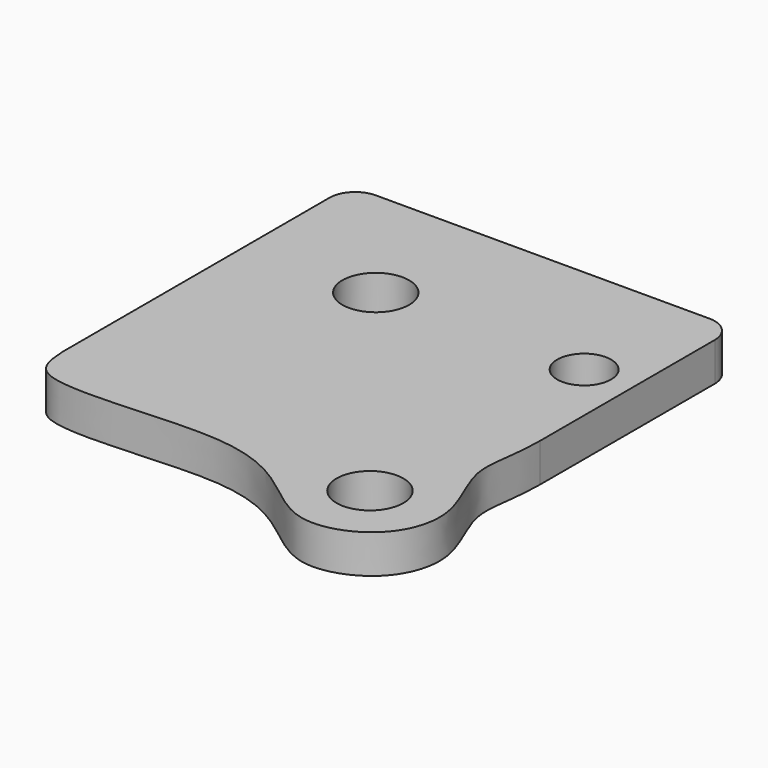
from build123d import *

# Parameters (mm, degrees)
F0_R     = 2.6
F0_R_2   = 2.1
F1_DEPTH = 3


with BuildPart() as f1:
    # F0 (on Top) → F1 (new body)
    with BuildSketch(Plane.XY):
        with BuildLine():
            Line((12.3479472026, 7.9058583081), (-13.6520527974, 7.9058583081))
            ThreePointArc((-13.6520527974, 7.9058583081), (-15.0662663598, 7.3200718704), (-15.6520527974, 5.9058583081))
            Line((-15.6520527974, 5.9058583081), (-15.6520527974, -20.0941416919))
            add(Edge.make_bspline(
                [(-15.6520527974, -20.0941416919), (-15.5751293037, -21.4033594279), (-15.2635781681, -24.5634502002), (-0.8787874809, -22.0988449664), (5.0756230648, -25.1076771756), (9.2072850265, -29.0327234408), (14.8289471052, -27.1474559823), (16.6930721896, -21.9723878023), (13.1588311211, -16.5555052211), (14.3295111489, -13.9155043625), (14.3479472026, -11.0878590494)],
                knots=[0, 0, 0, 0, 0.0914376173, 0.2762733003, 0.4129615686, 0.5284098194, 0.6427719716, 0.7555166389, 0.8762466025, 1, 1, 1, 1], degree=3))
            Line((14.3479472026, -11.0878590494), (14.3479472026, 5.9058583081))
            ThreePointArc((14.3479472026, 5.9058583081), (13.762160765, 7.3200718704), (12.3479472026, 7.9058583081))
        make_face()
        with Locations((10.3771137074, -22.6941416919)):
            Circle(F0_R, mode=Mode.SUBTRACT)
        with Locations((-5.6520527974, -2.0941416919)):
            Circle(F0_R, mode=Mode.SUBTRACT)
        with Locations((10.5747394032, -2.0941416919)):
            Circle(F0_R_2, mode=Mode.SUBTRACT)
    extrude(amount=F1_DEPTH)


solid = f1.part
